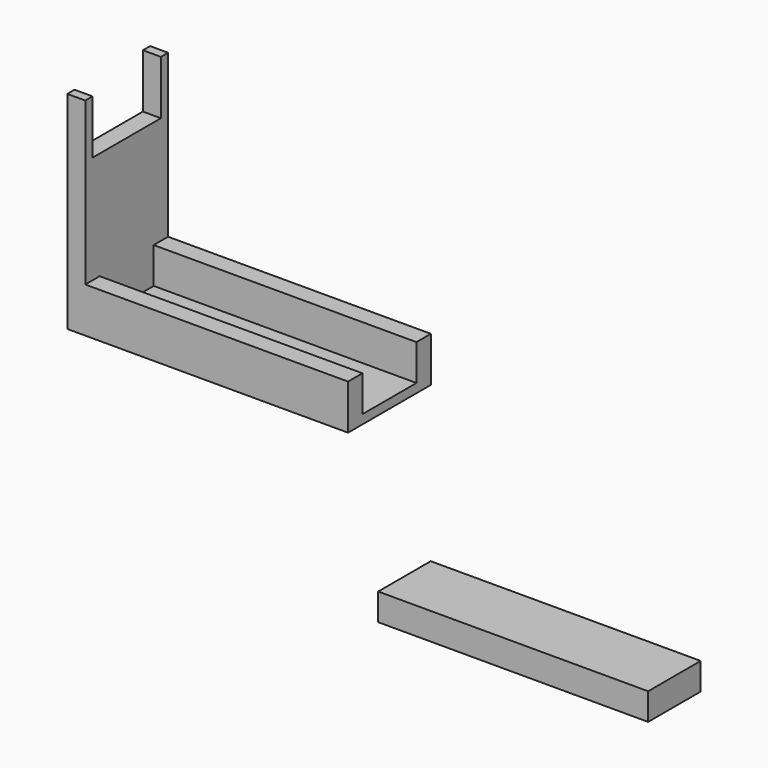
from build123d import *

# Parameters (mm, degrees)
F0_W      = 3.5
F0_H      = 2.5
F1_DEPTH  = 3
F2_DEPTH  = 2
F3_W      = 33.2
F3_H      = 11.5
F3_W_2    = 29.2
F3_H_2    = 7.5
F4_DEPTH  = 5
F5_DEPTH  = 1
F7_DEPTH  = 5
F8_DEPTH  = 12
F9_W      = 2
F9_H      = 1
F10_DEPTH = 6


with BuildPart() as f1:
    # F0 (on Top) → F1 (new body)
    with BuildSketch(Plane.XY):
        Polygon((17.6036984033, 2.2320148691), (-5.8963015967, 2.2320148691), (-5.8963015967, -5.0679851309), (17.6036984033, -5.0679851309), (17.6036984033, -2.6679851309), (17.6036984033, -0.1679851309), align=None)
        Polygon((24.1036984033, 2.2320148691), (17.6036984033, 2.2320148691), (17.6036984033, -0.1679851309), (21.1036984033, -0.1679851309), (21.1036984033, -2.6679851309), (17.6036984033, -2.6679851309), (17.6036984033, -5.0679851309), (24.1036984033, -5.0679851309), align=None)
        with Locations((19.3536984033, -1.4179851309)):
            Rectangle(F0_W, F0_H)
    extrude(amount=F1_DEPTH)

    # F0 (on Top) → F2 (cut)
    with BuildSketch(Plane.XY):
        with Locations((19.3536984033, -1.4179851309)):
            Rectangle(F0_W, F0_H)
    extrude(amount=F2_DEPTH, mode=Mode.SUBTRACT)


with BuildPart() as f4:
    # F3 (on Top) → F4 (new body)
    with BuildSketch(Plane.XY):
        with Locations((-44.7821782172, 26.8558953583)):
            Rectangle(F3_W, F3_H)
        with Locations((-44.7821782172, 26.8558953583)):
            Rectangle(F3_W_2, F3_H_2, mode=Mode.SUBTRACT)
    extrude(amount=F4_DEPTH)

    # F3 (on Top) → F5 (join)
    with BuildSketch(Plane.XY):
        with Locations((-44.7821782172, 26.8558953583)):
            Rectangle(F3_W_2, F3_H_2)
    extrude(amount=F5_DEPTH)

    # F6 (on face) → F7 (cut)
    with BuildSketch(Plane.XY.offset(5)):
        Polygon((-30.1821782172, 32.6058953583), (-30.1821782172, 30.6058953583), (-30.1821782172, 23.1058953583), (-30.1821782172, 21.1058953583), (-28.1821782172, 21.1058953583), (-28.1821782172, 32.6058953583), align=None)
    extrude(amount=-F7_DEPTH, mode=Mode.SUBTRACT)

    # F6 (on face) → F8 (join)
    with BuildSketch(Plane.XY.offset(5)):
        Polygon((-59.3821782172, 23.1058953583), (-59.3821782172, 30.6058953583), (-59.3821782172, 32.6058953583), (-61.3821782172, 32.6058953583), (-61.3821782172, 21.1058953583), (-59.3821782172, 21.1058953583), align=None)
    extrude(amount=F8_DEPTH)

    # F9 (on face) → F10 (join)
    with BuildSketch(Plane.XY.offset(17)):
        with Locations((-60.3821782172, 21.6058953583)):
            Rectangle(F9_W, F9_H)
        with Locations((-60.3821782172, 32.1058953583)):
            Rectangle(F9_W, F9_H)
    extrude(amount=F10_DEPTH)


solid = Compound([f1.part, f4.part])
